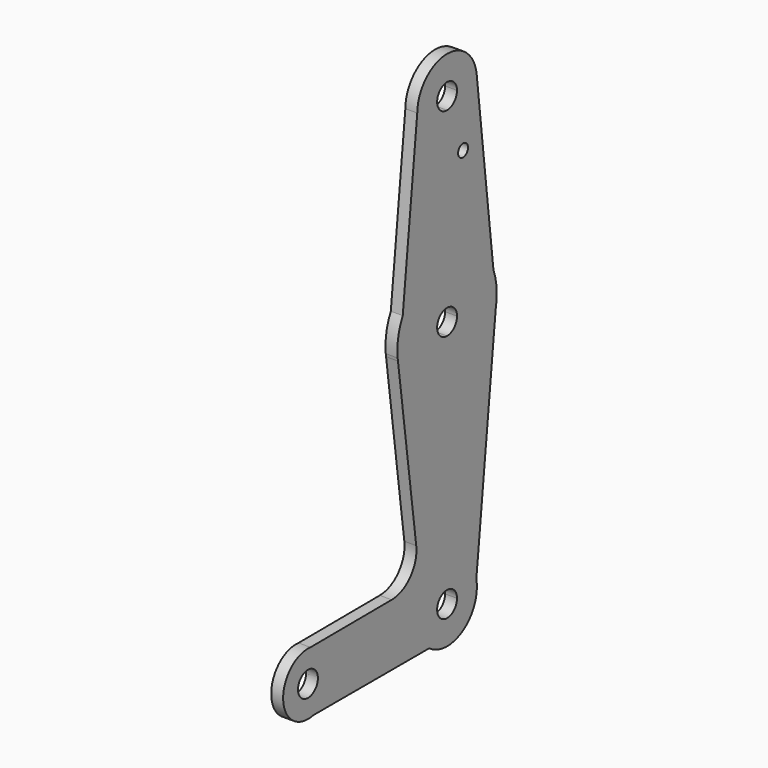
from build123d import *

# Parameters (mm, degrees)
F0_R     = 1.5875
F1_DEPTH = 3.048


with BuildPart() as f1:
    # F0 (on Right) → F1 (new body)
    with BuildSketch(Plane.YZ):
        with BuildLine():
            ThreePointArc((20.6192658602, 94.538977478), (23.3833367864, 87.7571874382), (30.1439925328, 84.9418192372))
            ThreePointArc((30.1439925328, 84.9418192372), (36.8791846236, 87.7316271464), (39.6689925328, 94.4668192372))
            ThreePointArc((39.6689925328, 94.4668192372), (39.6560750954, 94.9627126954), (39.6173578196, 95.4572611305))
            Line((39.6173578196, 95.4572611305), (39.5927784781, 95.6693453948))
            ThreePointArc((39.5927784781, 95.6693453948), (29.577534542, 103.9749605038), (20.6192658602, 94.538977478))
        make_face()
        with BuildLine():
            ThreePointArc((33.3189925328, 94.4668192372), (32.3890565631, 92.221755207), (30.1439925328, 91.2918192372))
            ThreePointArc((30.1439925328, 91.2918192372), (27.8989285025, 96.7118832675), (33.3189925328, 94.4668192372))
        make_face(mode=Mode.SUBTRACT)
        with BuildLine():
            ThreePointArc((39.6689925328, 94.4668192372), (36.8791846236, 87.7316271464), (30.1439925328, 84.9418192372))
            Line((30.1439925328, 84.9418192372), (30.1439925328, 59.5418192372))
            ThreePointArc((30.1439925328, 59.5418192372), (39.1285508172, 56.754727299), (44.9583639095, 49.3720822211))
            Line((44.9583639095, 49.3720822211), (39.6173578196, 95.4572611305))
            ThreePointArc((39.6173578196, 95.4572611305), (39.6560750954, 94.9627126954), (39.6689925328, 94.4668192372))
        make_face()
        with Locations((35.2487452328, 80.1920192372)):
            Circle(F0_R, mode=Mode.SUBTRACT)
        with BuildLine():
            Line((30.1439925328, 59.5418192372), (30.1439925328, 84.9418192372))
            ThreePointArc((30.1439925328, 84.9418192372), (23.3833367864, 87.7571874382), (20.6192658602, 94.538977478))
            Line((20.6192658602, 94.538977478), (15.9762797521, 50.8286304302))
            ThreePointArc((15.9762797521, 50.8286304302), (21.8276870937, 57.1891965742), (30.1439925328, 59.5418192372))
        make_face()
        with BuildLine():
            ThreePointArc((44.9583639095, 49.3720822211), (39.1285508172, 56.754727299), (30.1439925328, 59.5418192372))
            Line((30.1439925328, 59.5418192372), (30.1439925328, 46.8418192372))
            ThreePointArc((30.1439925328, 46.8418192372), (32.3890565631, 45.9118832675), (33.3189925328, 43.6668192372))
            ThreePointArc((33.3189925328, 43.6668192372), (32.3890565631, 41.421755207), (30.1439925328, 40.4918192372))
            Line((30.1439925328, 40.4918192372), (30.1439925328, 27.7918192372))
            ThreePointArc((30.1439925328, 27.7918192372), (40.2348384207, 31.4115977269), (45.7239045432, 40.6201872035))
            Line((45.7239045432, 40.6201872035), (46.0162507225, 43.3717854106))
            ThreePointArc((46.0162507225, 43.3717854106), (46.0183070654, 43.519295954), (46.0189925328, 43.6668192372))
            ThreePointArc((46.0189925328, 43.6668192372), (45.7515831637, 46.5683256904), (44.9583639095, 49.3720822211))
        make_face()
        with BuildLine():
            Line((30.1439925328, 46.8418192372), (30.1439925328, 59.5418192372))
            ThreePointArc((30.1439925328, 59.5418192372), (21.8276870937, 57.1891965742), (15.9762797521, 50.8286304302))
            ThreePointArc((15.9762797521, 50.8286304302), (14.5245790346, 46.5039915923), (14.362635633, 41.9450761088))
            Line((14.362635633, 41.9450761088), (14.4599248422, 41.2121001744))
            ThreePointArc((14.4599248422, 41.2121001744), (19.8229712685, 31.6048067575), (30.1439925328, 27.7918192372))
            Line((30.1439925328, 27.7918192372), (30.1439925328, 40.4918192372))
            ThreePointArc((30.1439925328, 40.4918192372), (26.9689925328, 43.6668192372), (30.1439925328, 46.8418192372))
        make_face()
        with BuildLine():
            ThreePointArc((39.6173578196, 95.4572611305), (39.6056624037, 95.5633721334), (39.5927784781, 95.6693453948))
            Line((39.5927784781, 95.6693453948), (39.6173578196, 95.4572611305))
        make_face()
        with BuildLine():
            Line((14.4599248422, 41.2121001744), (14.362635633, 41.9450761088))
            ThreePointArc((14.362635633, 41.9450761088), (14.4070122128, 41.578021639), (14.4599248422, 41.2121001744))
        make_face()
        with BuildLine():
            ThreePointArc((45.7239045432, 40.6201872035), (40.2348384207, 31.4115977269), (30.1439925328, 27.7918192372))
            Line((30.1439925328, 27.7918192372), (30.1439925328, -10.3081807628))
            ThreePointArc((30.1439925328, -10.3081807628), (36.2027481756, -12.4835477746), (39.4940461474, -18.0160064718))
            Line((39.4940461474, -18.0160064718), (45.7239045432, 40.6201872035))
        make_face()
        with BuildLine():
            Line((30.1439925328, -10.3081807628), (30.1439925328, 27.7918192372))
            ThreePointArc((30.1439925328, 27.7918192372), (19.8229712685, 31.6048067575), (14.4599248422, 41.2121001744))
            Line((14.4599248422, 41.2121001744), (20.2870354782, -2.6892933731))
            ThreePointArc((20.2870354782, -2.6892933731), (18.4004499897, -8.9575963205), (12.4498462988, -11.6854420564))
            Line((12.4498462988, -11.6854420564), (-13.5119950672, -11.8287714378))
            ThreePointArc((-13.5119950672, -11.8287714378), (-8.4193114637, -14.4019187635), (-6.3685074672, -19.7264578433))
            ThreePointArc((-6.3685074672, -19.7264578433), (-6.3685131868, -19.7359866548), (-6.3685303455, -19.7455154525))
            Line((-6.3685303455, -19.7455154525), (20.6190199868, -19.8103116316))
            ThreePointArc((20.6190199868, -19.8103116316), (23.4168907599, -13.0899080605), (30.1439925328, -10.3081807628))
        make_face()
        with BuildLine():
            ThreePointArc((45.7239045432, 40.6201872035), (45.9301439241, 41.9896045066), (46.0162507225, 43.3717854106))
            Line((46.0162507225, 43.3717854106), (45.7239045432, 40.6201872035))
        make_face()
        with BuildLine():
            ThreePointArc((39.4940461474, -18.0160064718), (36.2027481756, -12.4835477746), (30.1439925328, -10.3081807628))
            Line((30.1439925328, -10.3081807628), (30.1439925328, -16.6581807628))
            ThreePointArc((30.1439925328, -16.6581807628), (32.3890565631, -17.5881167325), (33.3189925328, -19.8331807628))
            ThreePointArc((33.3189925328, -19.8331807628), (30.1401810082, -23.0081784749), (26.9690016841, -19.8255577191))
            Line((26.9690016841, -19.8255577191), (20.6190199868, -19.8103116316))
            ThreePointArc((20.6190199868, -19.8103116316), (21.6276394845, -24.0990166429), (24.4582910855, -27.4750669208))
            ThreePointArc((24.4582910855, -27.4750669208), (34.4200490522, -28.3444066229), (39.6689925328, -19.8331807628))
            ThreePointArc((39.6689925328, -19.8331807628), (39.6251550586, -18.9203926382), (39.4940461474, -18.0160064718))
        make_face()
        with BuildLine():
            ThreePointArc((24.4582910855, -27.4750669208), (21.6276394845, -24.0990166429), (20.6190199868, -19.8103116316))
            Line((20.6190199868, -19.8103116316), (-6.3685303455, -19.7455154525))
            ThreePointArc((-6.3685303455, -19.7455154525), (-8.1205720343, -24.7008215972), (-12.5846813465, -27.4750669208))
            Line((-12.5846813465, -27.4750669208), (24.4582910855, -27.4750669208))
        make_face()
        with BuildLine():
            ThreePointArc((-12.5846813465, -27.4750669208), (-8.1205720343, -24.7008215972), (-6.3685303455, -19.7455154525))
            ThreePointArc((-6.3685303455, -19.7455154525), (-6.3685131868, -19.7359866548), (-6.3685074672, -19.7264578433))
            ThreePointArc((-6.3685074672, -19.7264578433), (-8.4193114637, -14.4019187635), (-13.5119950672, -11.8287714378))
            ThreePointArc((-13.5119950672, -11.8287714378), (-22.229603403, -20.1960679971), (-12.5846813465, -27.4750669208))
        make_face()
        with BuildLine():
            ThreePointArc((-11.1310074672, -19.7264578433), (-11.131009755, -19.7302693679), (-11.1310166185, -19.734080887))
            ThreePointArc((-11.1310166185, -19.734080887), (-17.4810051794, -19.7226463187), (-11.1310074672, -19.7264578433))
        make_face(mode=Mode.SUBTRACT)
        with BuildLine():
            Line((30.1439925328, -16.6581807628), (30.1439925328, -10.3081807628))
            ThreePointArc((30.1439925328, -10.3081807628), (23.4168907599, -13.0899080605), (20.6190199868, -19.8103116316))
            Line((20.6190199868, -19.8103116316), (26.9690016841, -19.8255577191))
            ThreePointArc((26.9690016841, -19.8255577191), (27.9016252752, -17.5854231953), (30.1439925328, -16.6581807628))
        make_face()
    extrude(amount=-F1_DEPTH)


solid = f1.part
